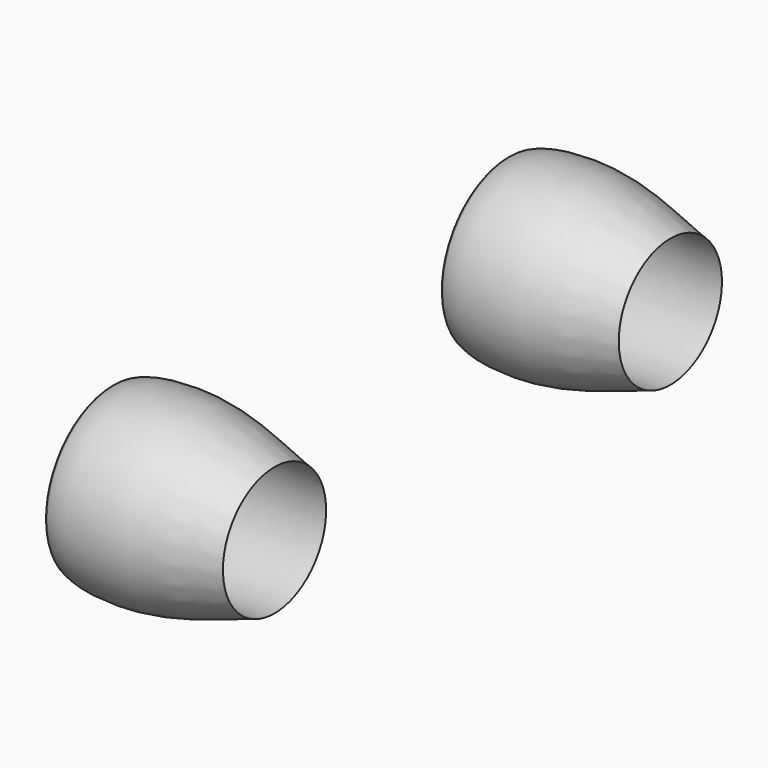
from build123d import *


with BuildPart() as f1:
    # F0 (on Front) → F1 (revolve)
    with BuildSketch(Plane.XZ):
        with BuildLine():
            add(Edge.make_bspline(
                [(-50.8459684787, 8.8063034576), (-54.1994999125, 9.6607649275), (-67.619681298, 14.8744067193), (-80.6271214508, 13.8926914079), (-82.6015743431, 13.0855265195), (-83.1091346878, 12.9124315303)],
                knots=[0, 0, 0, 0, 0.4522852711, 0.8416824909, 1, 1, 1, 1], degree=3))
            ThreePointArc((-83.1091346878, 12.9124315303), (-83.78166396, 11.86920541), (-82.9208046198, 10.9750367701))
            add(Edge.make_bspline(
                [(-50.8459684787, 8.8063034576), (-56.9549956051, 8.5989120174), (-80.6966083185, 10.7980674345), (-82.4617031851, 10.9127453764), (-82.9208046198, 10.9750367701)],
                knots=[0, 0, 0, 0, 0.7849738661, 1, 1, 1, 1], degree=3))
        make_face()
    revolve(axis=Axis((-49.5219491422, 0, -4.2302496731), (-1, 0, 0)))


with BuildPart() as f2_1:
    # F2: copy of F1
    add(f1.part.moved(Location((0, -100, 0))))


solid = Compound([f1.part, f2_1.part])
